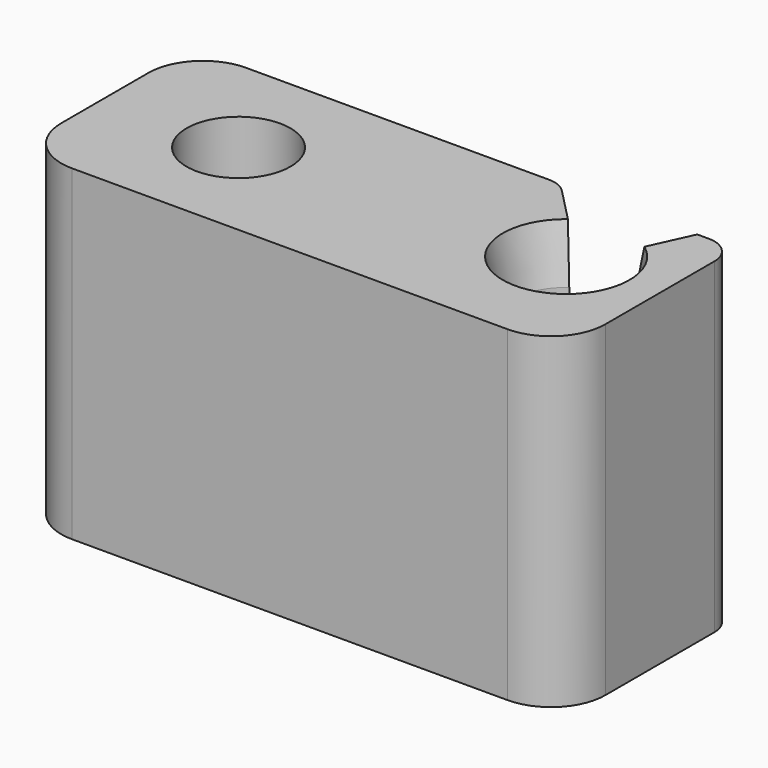
from build123d import *

# Parameters (mm, degrees)
F1_DEPTH = 30
F2_R     = 5
F3_R     = 2.5
F4_SIZE2 = 1
F4_SIZE  = 5
F5_R     = 4.7732777186
F6_DEPTH = 25.4


with BuildPart() as f1:
    # F0 (on Top) → F1 (new body)
    with BuildSketch(Plane.XY):
        with BuildLine():
            Line((8.6023872718, -25.1175931746), (-25.2596801519, -25.1175931746))
            Line((-25.2596801519, -25.1175931746), (-25.2596801519, -45.1175931746))
            Line((-25.2596801519, -45.1175931746), (24.7403198481, -45.1175931746))
            Line((24.7403198481, -45.1175931746), (24.7403198481, -25.1175931746))
            Line((24.7403198481, -25.1175931746), (21.1665723473, -25.1175931746))
            Line((21.1665723473, -25.1175931746), (18.9759883363, -29.909516218))
            ThreePointArc((18.9759883363, -29.909516218), (15.8660389828, -38.4984737312), (13.1416287482, -29.7795537856))
            Line((13.1416287482, -29.7795537856), (8.6023872718, -25.1175931746))
        make_face()
    extrude(amount=F1_DEPTH)

    # F2
    f2_edges = [f1.edges().sort_by_distance(p)[0] for p in [
        (-25.25968, -25.117593, 15),
        (-25.25968, -45.117593, 15),
        (24.74032, -45.117593, 15),
    ]]
    fillet(f2_edges, radius=F2_R)

    # F3
    f3_edges = [f1.edges().sort_by_distance(p)[0] for p in [
        (24.74032, -25.117593, 15),
        (8.602387, -25.117593, 15),
    ]]
    fillet(f3_edges, radius=F3_R)

    # F4
    f4_edges = [f1.edges().sort_by_distance(p)[0] for p in [
        (15.866039, -38.498474, 30),
    ]]
    f4_side = f1.faces().sort_by_distance((15.866039, -38.498474, 15))[0]
    chamfer(f4_edges, length=F4_SIZE, length2=F4_SIZE2, reference=f4_side)

    # F5 (on face) → F6 (cut)
    with BuildSketch(Plane.XY.offset(30)):
        with Locations((-12.9745947197, -35.1175931746)):
            Circle(F5_R)
    extrude(amount=-F6_DEPTH, mode=Mode.SUBTRACT)


solid = f1.part
